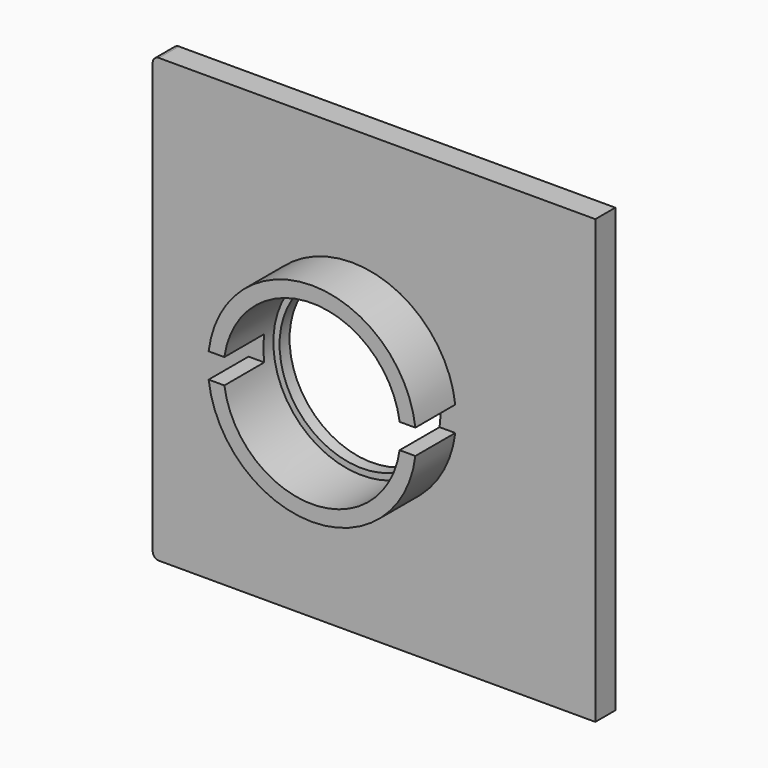
from build123d import *

# Parameters (mm, degrees)
SKETCH_R          = 8.35
SKETCH_R_2        = 7.1
PAD_DEPTH         = 4
SKETCH001_W       = 35.5
SKETCH001_H       = 35.5
SKETCH001_R       = 6.6
PAD001_DEPTH      = 2
SKETCH002_W       = 4
SKETCH002_H       = 2
POCKET_DEPTH      = 25
POCKET_DEPTH_BACK = 25
FILLET002_R       = 0.5
SKETCH010_R       = 7.1
POCKET002_DEPTH   = 1


with BuildPart() as part:
    # Sketch → Pad (new body)
    with BuildSketch(Plane.XZ):
        Circle(SKETCH_R)
        Circle(SKETCH_R_2, mode=Mode.SUBTRACT)
    extrude(amount=PAD_DEPTH)

    # Sketch001 → Pad001 (join)
    with BuildSketch(Plane.XZ):
        with Locations((1.775, 0)):
            Rectangle(SKETCH001_W, SKETCH001_H)
        Circle(SKETCH001_R, mode=Mode.SUBTRACT)
    extrude(amount=-PAD001_DEPTH)

    # Sketch002 (on DatumPlane) → Pocket (cut, two sides)
    with BuildSketch(Plane.YZ) as pocket_sk:
        with Locations((-2, 0)):
            Rectangle(SKETCH002_W, SKETCH002_H)
    extrude(amount=-POCKET_DEPTH, mode=Mode.SUBTRACT)
    extrude(pocket_sk.sketch, amount=POCKET_DEPTH_BACK, mode=Mode.SUBTRACT)

    # Fillet002
    fillet002_edges = [part.edges().sort_by_distance(p)[0] for p in [
        (-15.975, 1, -17.75),
        (-15.975, 1, 17.75),
    ]]
    fillet(fillet002_edges, radius=FILLET002_R)

    # Sketch010 → Pocket002 (cut)
    with BuildSketch(Plane.XZ):
        Circle(SKETCH010_R)
    extrude(amount=-POCKET002_DEPTH, mode=Mode.SUBTRACT)


with BuildPart() as part_1:
    # Body placement: moved
    add(part.part.moved(Location((-2.5, -3, 0))))


solid = part_1.part
